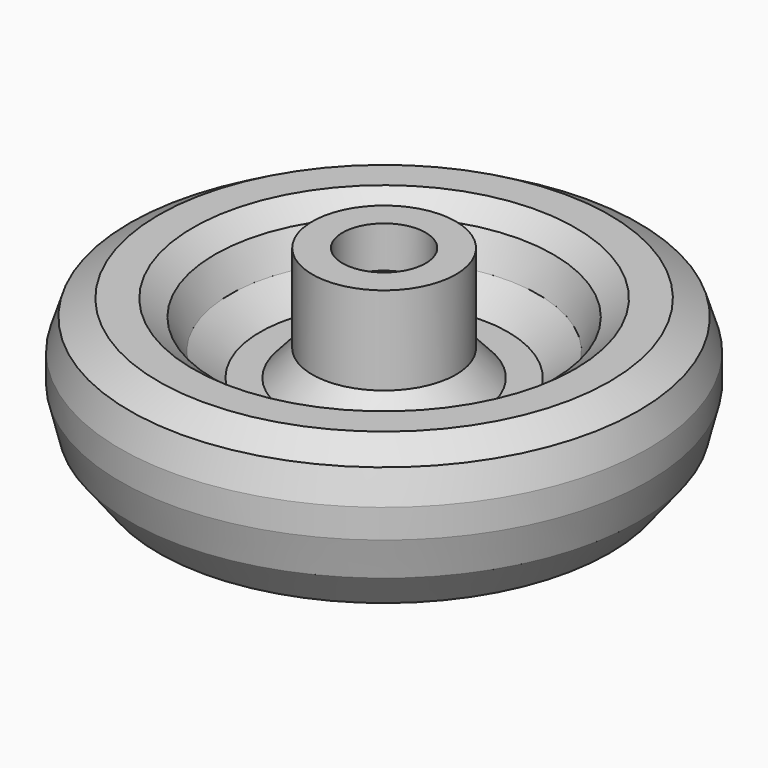
from build123d import *


with BuildPart() as f1:
    # F0 (on Front) → F1 (revolve)
    with BuildSketch(Plane.XZ):
        Polygon((3.175, 22.225), (3.175, 0), (40.674434, 6.738134), (51.684053, 12.400226), (58.28983, 20.893366), (60.491753, 29.701065), (60.491753, 36.306841), (58.28983, 43.227175), (51.684053, 47.001903), (43.820039, 47.001903), (38.787068, 43.227175), (35.326903, 36.306841), (28.406569, 30.959309), (21.800791, 30.959309), (16.453259, 36.93596), (16.453259, 47.625), (16.453259, 57.15), (9.525, 57.15), (9.525, 47.625), (0, 47.625), (0, 22.225), align=None)
    revolve(axis=Axis((0, 0, 34.925), (0, 0, 1)))


solid = f1.part
